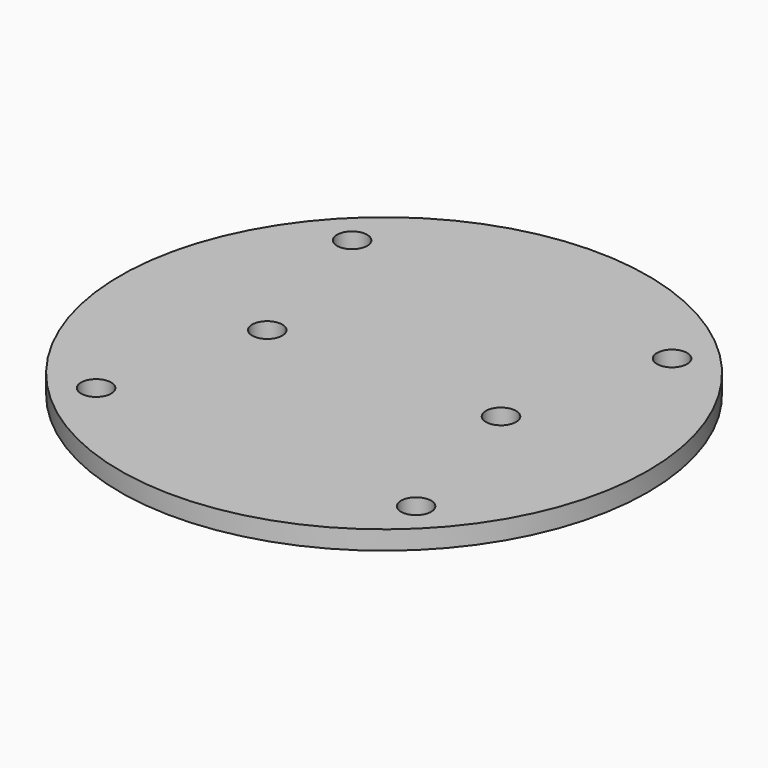
from build123d import *

# Parameters (mm, degrees)
SKETCH_R        = 70
PAD_DEPTH       = 5
SKETCH001_R     = 4
POCKET_DEPTH    = 5
SKETCH002_R     = 4
POCKET001_DEPTH = 5


with BuildPart() as part:
    # Sketch → Pad (new body)
    with BuildSketch(Plane.XY):
        Circle(SKETCH_R)
    extrude(amount=PAD_DEPTH)

    # Sketch001 → Pocket (cut)
    with BuildSketch(Plane.XY.offset(5)):
        with Locations((-42.426407, 42.426407)):
            Circle(SKETCH001_R)
        with Locations((42.426407, 42.426407)):
            Circle(SKETCH001_R)
        with Locations((42.426407, -42.426407)):
            Circle(SKETCH001_R)
        with Locations((-42.426407, -42.426407)):
            Circle(SKETCH001_R)
    extrude(amount=-POCKET_DEPTH, mode=Mode.SUBTRACT)

    # Sketch002 → Pocket001 (cut)
    with BuildSketch(Plane.XY.offset(5)):
        with Locations((-31, 0)):
            Circle(SKETCH002_R)
        with Locations((31, 0)):
            Circle(SKETCH002_R)
    extrude(amount=-POCKET001_DEPTH, mode=Mode.SUBTRACT)


solid = part.part
